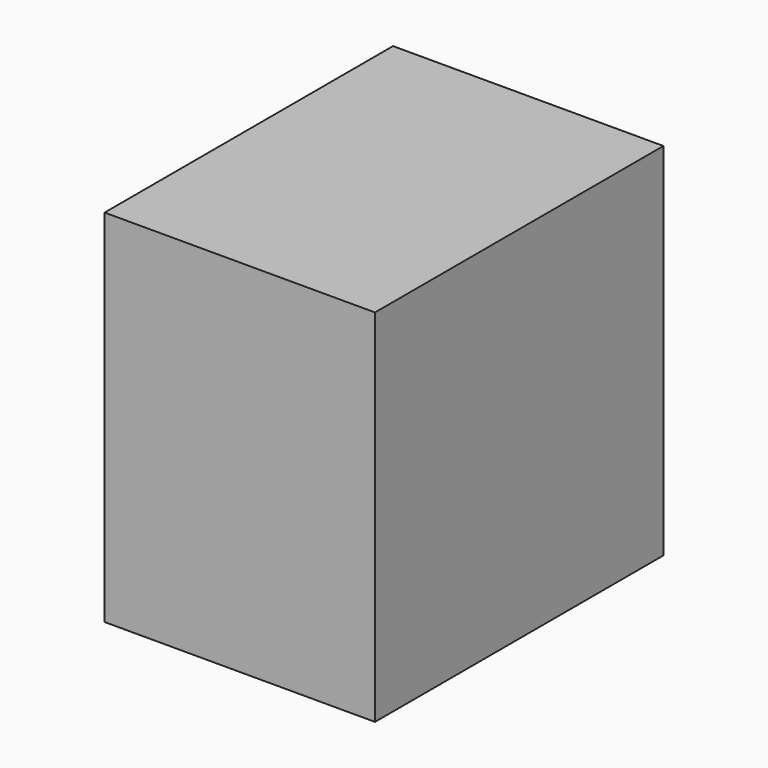
from build123d import *

# Parameters (mm, degrees)
SKETCH_W     = 3
SKETCH_H     = 4
PAD_DEPTH    = 4
SKETCH001_W  = 0.5
SKETCH001_H  = 3
POCKET_DEPTH = 2


with BuildPart() as part:
    # Sketch → Pad (new body)
    with BuildSketch(Plane.XY):
        Rectangle(SKETCH_W, SKETCH_H)
    extrude(amount=PAD_DEPTH)

    # Sketch001 (on Face5 of Pad) → Pocket (cut)
    with BuildSketch(Plane(origin=(0, 0, 0), x_dir=(1, 0, 0), z_dir=(0, 0, -1))):
        Rectangle(SKETCH001_W, SKETCH001_H)
    extrude(amount=-POCKET_DEPTH, mode=Mode.SUBTRACT)


solid = part.part
